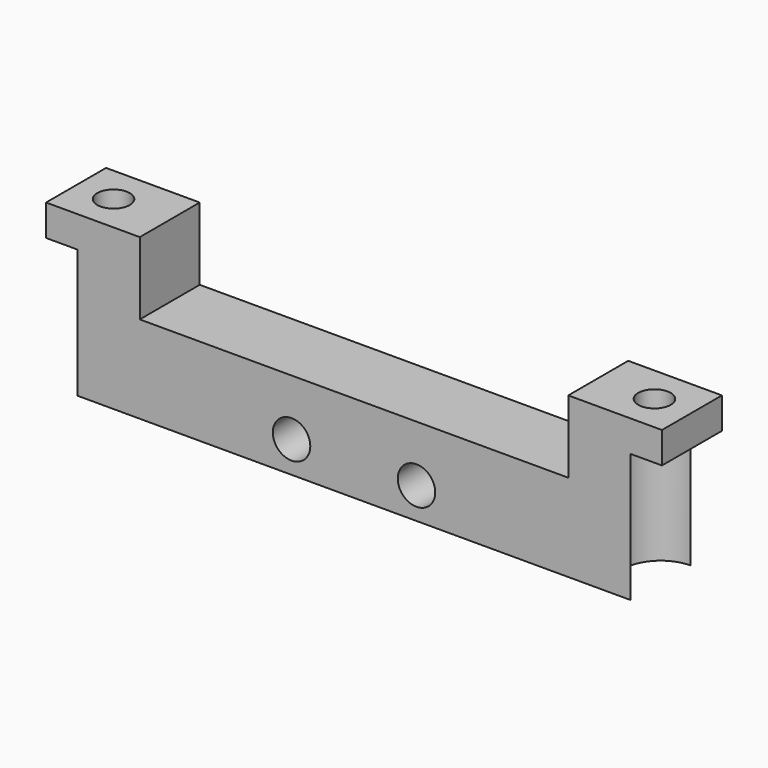
from build123d import *

# Parameters (mm, degrees)
F0_W     = 24.65
F0_H     = 6
F1_DEPTH = 12.8
F2_W     = 17.15
F2_H     = 5.8
F3_DEPTH = 25
F6_DEPTH = 10.3
F4_R     = 1.3
F7_DEPTH = 25
F8_R     = 1.5
F9_DEPTH = 25


with BuildPart() as f1:
    # F0 (on Top) → F1 (new body)
    with BuildSketch(Plane.XY):
        with Locations((-12.325, 0)):
            Rectangle(F0_W, F0_H)
    extrude(amount=F1_DEPTH)

    # F2 (on face) → F3 (cut)
    with BuildSketch(Plane.XZ.offset(3)):
        with Locations((-8.575, 9.9)):
            Rectangle(F2_W, F2_H)
    extrude(amount=-F3_DEPTH, mode=Mode.SUBTRACT)

    # F5 (on face) → F6 (cut)
    with BuildSketch(Plane(origin=(0, 0, 0), x_dir=(1, 0, 0), z_dir=(0, 0, -1))):
        with BuildLine():
            Line((-24.65, -3), (-22.15, -3))
            ThreePointArc((-22.15, -3), (-19.15, 0), (-22.15, 3))
            Line((-22.15, 3), (-24.65, 3))
            Line((-24.65, 3), (-24.65, -3))
        make_face()
    extrude(amount=-F6_DEPTH, mode=Mode.SUBTRACT)

    # F4 (on face) → F7 (cut)
    with BuildSketch(Plane.XY.offset(12.8)):
        with Locations((-21.65, 0)):
            Circle(F4_R)
    extrude(amount=-F7_DEPTH, mode=Mode.SUBTRACT)

    # F8 (on face) → F9 (cut)
    with BuildSketch(Plane.XZ.offset(3)):
        with Locations((-5, 2.5)):
            Circle(F8_R)
    extrude(amount=-F9_DEPTH, mode=Mode.SUBTRACT)

    # F10: F1 across face


with BuildPart() as f1_1:
    add(f1.part)
    add(f1.part.mirror(Plane(origin=(0, 0, 3.5), x_dir=(0, 1, 0), z_dir=(1, 0, 0))))


solid = f1_1.part
